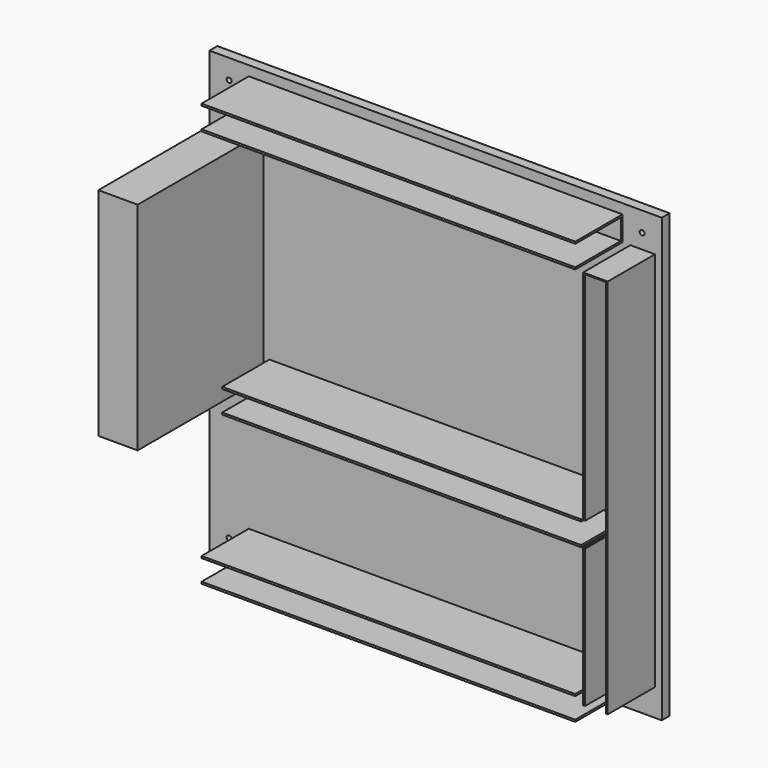
from build123d import *

# Parameters (mm, degrees)
F0_W      = 460
F0_H      = 450
F1_DEPTH  = 10
F2_R      = 2.5
F3_DEPTH  = 23
F4_W      = 40
F4_H      = 220
F5_DEPTH  = 160
F6_W      = 380
F6_H      = 25
F7_DEPTH  = 60
F8_W      = 58
F8_H      = 21
F9_DEPTH  = 382.2
F10_DEPTH = 401
F11_W     = 25
F11_H     = 387.5
F12_DEPTH = 60
F13_W     = 21
F13_H     = 58
F14_DEPTH = 386.4
F15_W     = 58
F15_H     = 25
F16_DEPTH = 3.3
F17_W     = 365
F17_H     = 25
F18_DEPTH = 60
F19_W     = 58
F19_H     = 21
F20_DEPTH = 366.6


with BuildPart() as f1:
    # F0 (on Front) → F1 (new body)
    with BuildSketch(Plane.XZ):
        Rectangle(F0_W, F0_H)
    extrude(amount=F1_DEPTH)

    # F2 (on face) → F3 (cut)
    with BuildSketch(Plane.XZ.offset(10)):
        with Locations((210, 205)):
            Circle(F2_R)
        with Locations((-210, 205)):
            Circle(F2_R)
        with Locations((-210, -205)):
            Circle(F2_R)
        with Locations((210, -205)):
            Circle(F2_R)
    extrude(amount=-F3_DEPTH, mode=Mode.SUBTRACT)

    # F4 (on face) → F5 (join)
    with BuildSketch(Plane.XZ.offset(10)):
        with Locations((-195, 60)):
            Rectangle(F4_W, F4_H)
    extrude(amount=F5_DEPTH)

    # F6 (on face) → F7 (join)
    with BuildSketch(Plane.XZ.offset(10)):
        with Locations((0, 202.5)):
            Rectangle(F6_W, F6_H)
        with Locations((0, -202.5)):
            Rectangle(F6_W, F6_H)
    extrude(amount=F7_DEPTH)

    # F8 (on face) → F9 (cut)
    with BuildSketch(Plane.YZ.offset(190)):
        with Locations((-41, 202.5)):
            Rectangle(F8_W, F8_H)
    extrude(amount=-F9_DEPTH, mode=Mode.SUBTRACT)

    # F8 (on face) → F10 (cut)
    with BuildSketch(Plane.YZ.offset(190)):
        with Locations((-41, -202.5)):
            Rectangle(F8_W, F8_H)
    extrude(amount=-F10_DEPTH, mode=Mode.SUBTRACT)

    # F11 (on face) → F12 (join)
    with BuildSketch(Plane.XZ.offset(10)):
        with Locations((210.504704, -3.75)):
            Rectangle(F11_W, F11_H)
    extrude(amount=F12_DEPTH)

    # F13 (on face) → F14 (cut)
    with BuildSketch(Plane(origin=(0, 0, -197.5), x_dir=(1, 0, 0), z_dir=(0, 0, -1))):
        with Locations((210.504704, 41)):
            Rectangle(F13_W, F13_H)
    extrude(amount=-F14_DEPTH, mode=Mode.SUBTRACT)

    # F15 (on face) → F16 (cut)
    with BuildSketch(Plane(origin=(198.004704, 0, 0), x_dir=(0, -1, 0), z_dir=(-1, 0, 0))):
        with Locations((41, -44.218161)):
            Rectangle(F15_W, F15_H)
    extrude(amount=-F16_DEPTH, mode=Mode.SUBTRACT)

    # F17 (on face) → F18 (join)
    with BuildSketch(Plane.XZ.offset(10)):
        with Locations((13.504704, -44.218161)):
            Rectangle(F17_W, F17_H)
    extrude(amount=F18_DEPTH)

    # F19 (on face) → F20 (cut)
    with BuildSketch(Plane.YZ.offset(196.004704)):
        with Locations((-41, -44.218161)):
            Rectangle(F19_W, F19_H)
    extrude(amount=-F20_DEPTH, mode=Mode.SUBTRACT)


solid = f1.part
